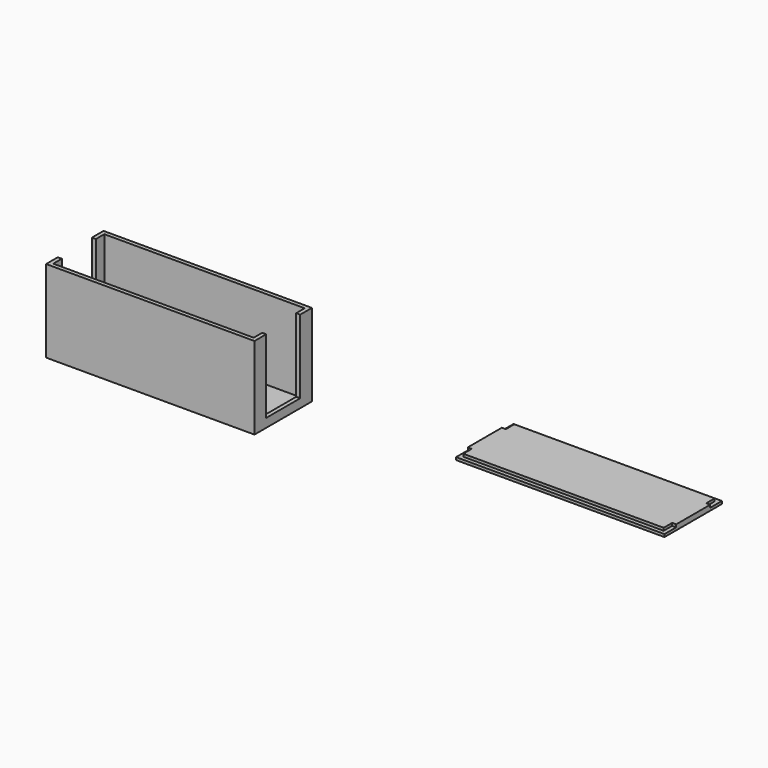
from build123d import *

# Parameters (mm, degrees)
F0_W     = 1.5
F0_H     = 16
F1_DEPTH = 1
F2_DEPTH = 31
F3_DEPTH = 3.3
F4_DEPTH = 1
F5_DEPTH = 2


with BuildPart() as f1:
    # F0 (on Top) → F1 (new body)
    with BuildSketch(Plane.XY):
        Polygon((-51.271316, -30.281004), (-51.271316, -26.281004), (-52.771316, -26.281004), (-52.771316, -31.781004), (25.628684, -31.781004), (25.628684, -26.281004), (24.128684, -26.281004), (24.128684, -30.281004), align=None)
        Polygon((-51.271316, -10.281004), (-51.271316, -6.281004), (24.128684, -6.281004), (24.128684, -10.281004), (25.628684, -10.281004), (25.628684, -4.781004), (-52.771316, -4.781004), (-52.771316, -10.281004), align=None)
        Polygon((24.128684, -6.281004), (-51.271316, -6.281004), (-51.271316, -10.281004), (-51.271316, -26.281004), (-51.271316, -30.281004), (24.128684, -30.281004), (24.128684, -26.281004), (24.128684, -10.281004), align=None)
        with Locations((-52.021316, -18.281004)):
            Rectangle(F0_W, F0_H)
        with Locations((24.878684, -18.281004)):
            Rectangle(F0_W, F0_H)
    extrude(amount=F1_DEPTH)

    # F0 (on Top) → F2 (join)
    with BuildSketch(Plane.XY):
        Polygon((-51.271316, -10.281004), (-51.271316, -6.281004), (24.128684, -6.281004), (24.128684, -10.281004), (25.628684, -10.281004), (25.628684, -4.781004), (-52.771316, -4.781004), (-52.771316, -10.281004), align=None)
        Polygon((-51.271316, -30.281004), (-51.271316, -26.281004), (-52.771316, -26.281004), (-52.771316, -31.781004), (25.628684, -31.781004), (25.628684, -26.281004), (24.128684, -26.281004), (24.128684, -30.281004), align=None)
    extrude(amount=F2_DEPTH)

    # F0 (on Top) → F3 (join)
    with BuildSketch(Plane.XY):
        with Locations((24.878684, -18.281004)):
            Rectangle(F0_W, F0_H)
    extrude(amount=F3_DEPTH)


with BuildPart() as f4:
    # F0 (on Top) → F4 (new body)
    with BuildSketch(Plane.XY):
        Polygon((158.917236, 18.033927), (83.517236, 18.033927), (83.517236, 14.033927), (83.517236, -1.966073), (83.517236, -5.966073), (158.917236, -5.966073), (158.917236, -1.966073), (158.917236, 14.033927), align=None)
        Polygon((83.517236, 14.033927), (83.517236, 18.033927), (158.917236, 18.033927), (158.917236, 14.033927), (160.417236, 14.033927), (160.417236, 19.533927), (82.017236, 19.533927), (82.017236, 14.033927), align=None)
        with Locations((82.767236, 6.033927)):
            Rectangle(F0_W, F0_H)
        Polygon((83.517236, -5.966073), (83.517236, -1.966073), (82.017236, -1.966073), (82.017236, -7.466073), (160.417236, -7.466073), (160.417236, -1.966073), (158.917236, -1.966073), (158.917236, -5.966073), align=None)
        with Locations((159.667236, 6.033927)):
            Rectangle(F0_W, F0_H)
    extrude(amount=F4_DEPTH)

    # F0 (on Top) → F5 (join)
    with BuildSketch(Plane.XY):
        Polygon((158.917236, 18.033927), (83.517236, 18.033927), (83.517236, 14.033927), (83.517236, -1.966073), (83.517236, -5.966073), (158.917236, -5.966073), (158.917236, -1.966073), (158.917236, 14.033927), align=None)
        with Locations((82.767236, 6.033927)):
            Rectangle(F0_W, F0_H)
        with Locations((159.667236, 6.033927)):
            Rectangle(F0_W, F0_H)
    extrude(amount=F5_DEPTH)


solid = Compound([f1.part, f4.part])
